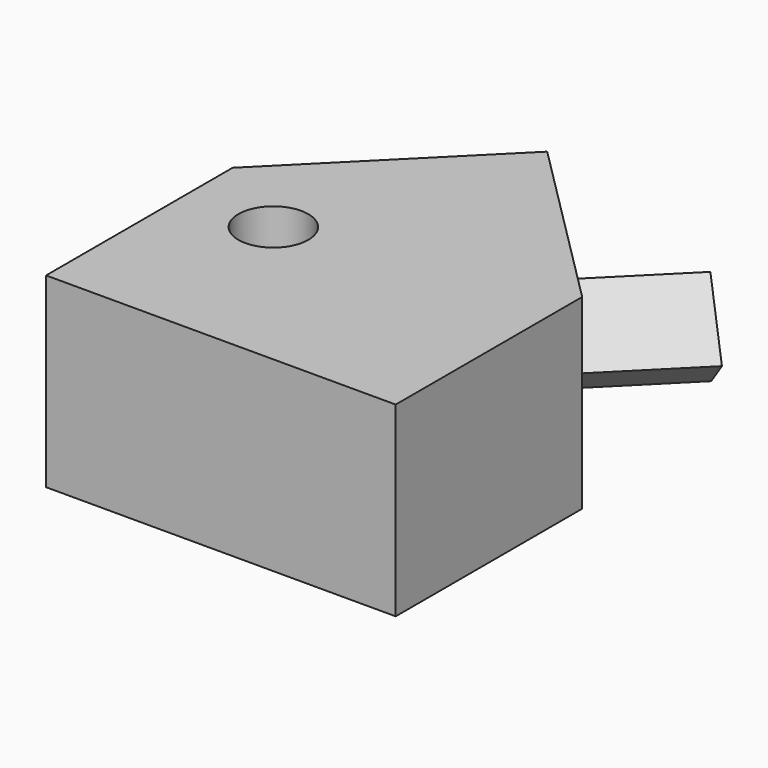
from build123d import *

# Parameters (mm, degrees)
F0_W     = 76.2
F0_H     = 50.8
F1_DEPTH = 40.64
F2_R     = 7.62
F3_DEPTH = 40.641
F5_DEPTH = 25.4


with BuildPart() as f1:
    # F0 (on Top) → F1 (new body)
    with BuildSketch(Plane.XY):
        with Locations((38.1, 25.4)):
            Rectangle(F0_W, F0_H)
        Polygon((38.1, 88.9), (0, 50.8), (76.2, 50.8), align=None)
    extrude(amount=F1_DEPTH)

    # F2 (on face) → F3 (cut, through all)
    with BuildSketch(Plane.XY.offset(40.64)):
        with Locations((19.05, 38.1)):
            Circle(F2_R)
    extrude(amount=-F3_DEPTH, mode=Mode.SUBTRACT)


with BuildPart() as f5:
    # F4 (on face) → F5 (new body)
    with BuildSketch(Plane(origin=(63.5, 63.5, 0), x_dir=(-0.707107, 0.707107, 0), z_dir=(0.707107, 0.707107, 0))):
        Polygon((11.791024, 7.62), (20.681024, 20.32), (13.061024, 27.94), (-4.718976, 19.05), align=None)
    extrude(amount=F5_DEPTH)


solid = Compound([f1.part, f5.part])
